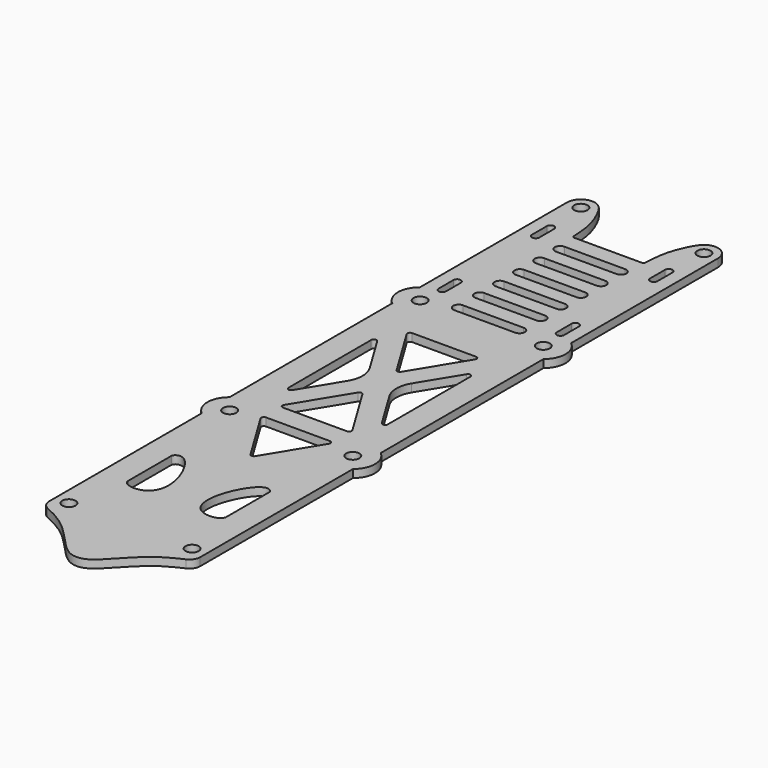
from build123d import *

# Parameters (mm, degrees)
F0_R     = 1.5875
F1_DEPTH = 1.905


with BuildPart() as f1:
    # F0 (on Top) → F1 (new body)
    with BuildSketch(Plane.XY):
        with BuildLine():
            Line((0, 64.29375), (-8.0692915369, 64.29375))
            ThreePointArc((-8.0692915369, 64.29375), (-8.4215671181, 64.4357364554), (-8.5769200179, 64.7823251383))
            add(Edge.make_bspline(
                [(-12.8926122561, 77.3753028588), (-11.8795596063, 76.6333639622), (-10.6498003247, 74.3650900179), (-8.8644784875, 70.1559227515), (-8.62777916, 66.1114233554), (-8.5769200179, 64.7823251383)],
                knots=[0, 0, 0, 0, 0.2946282226, 0.6388134724, 0.9581645609, 0.9581645609, 0.9581645609, 0.9581645609], degree=3))
            ThreePointArc((-12.8926122561, 77.3753028588), (-16.3119518581, 77.5025034933), (-18.0594, 74.5606523232))
            Line((-18.0594, 74.5606523232), (-18.0594, 64.29375))
            Line((-18.0594, 64.29375), (-18.0594, 30.6976966178))
            ThreePointArc((-18.0594, 30.6976966178), (-20.0373577753, 26.5546523232), (-18.0594, 22.4116080287))
            Line((-18.0594, 22.4116080287), (-18.0594, -26.1983033822))
            ThreePointArc((-18.0594, -26.1983033822), (-20.0373577753, -30.3413476768), (-18.0594, -34.4843919713))
            Line((-18.0594, -34.4843919713), (-18.0594, -80.1037074902))
            ThreePointArc((-18.0594, -80.1037074902), (-17.6548740182, -81.4789713622), (-16.5701474664, -82.4161801412))
            add(Edge.make_bspline(
                [(-16.5701474664, -82.4161801412), (-14.4586989248, -83.3755857388), (-9.7387477796, -85.8291950608), (-4.2677450179, -92.8247066324), (-1.4258848779, -94.45625), (0, -94.45625)],
                knots=[0.0694540172, 0.0694540172, 0.0694540172, 0.0694540172, 0.3658164206, 0.7438894649, 1, 1, 1, 1], degree=3))
            add(Edge.make_bspline(
                [(16.5701474664, -82.4161801412), (14.4586989248, -83.3755857388), (9.7387477796, -85.8291950608), (4.2677450179, -92.8247066324), (1.4258848779, -94.45625), (0, -94.45625)],
                knots=[0.0694540172, 0.0694540172, 0.0694540172, 0.0694540172, 0.3658164206, 0.7438894649, 1, 1, 1, 1], degree=3))
            ThreePointArc((16.5701474664, -82.4161801412), (17.6548740182, -81.4789713622), (18.0594, -80.1037074902))
            Line((18.0594, -80.1037074902), (18.0594, -34.4843919713))
            ThreePointArc((18.0594, -34.4843919713), (20.0373577753, -30.3413476768), (18.0594, -26.1983033822))
            Line((18.0594, -26.1983033822), (18.0594, 22.4116080287))
            ThreePointArc((18.0594, 22.4116080287), (20.0373577753, 26.5546523232), (18.0594, 30.6976966178))
            Line((18.0594, 30.6976966178), (18.0594, 64.29375))
            Line((18.0594, 64.29375), (18.0594, 74.5606523232))
            ThreePointArc((18.0594, 74.5606523232), (16.3119518581, 77.5025034933), (12.8926122561, 77.3753028588))
            add(Edge.make_bspline(
                [(12.8926122561, 77.3753028588), (11.8795596063, 76.6333639622), (10.6498003247, 74.3650900179), (8.8644784875, 70.1559227515), (8.62777916, 66.1114233554), (8.5769200179, 64.7823251383)],
                knots=[0, 0, 0, 0, 0.2946282226, 0.6388134724, 0.9581645609, 0.9581645609, 0.9581645609, 0.9581645609], degree=3))
            ThreePointArc((8.5769200179, 64.7823251383), (8.4215671181, 64.4357364554), (8.0692915369, 64.29375))
            Line((8.0692915369, 64.29375), (0, 64.29375))
        make_face()
        with Locations((-14.709354, -78.3473476768)):
            Circle(F0_R, mode=Mode.SUBTRACT)
        with BuildLine():
            add(Edge.make_bspline(
                [(-11.7158517241, -51.4875054359), (-11.6362785921, -50.8382730186), (-9.0120722077, -49.1688466521), (-3.4447561973, -59.2586678764), (-5.6341544406, -66.8391176817), (-11.6179846227, -65.9938752651), (-11.7158517241, -64.378246665)],
                knots=[0, 0, 0, 0, 0.1510240185, 0.4898001497, 0.7673295867, 1, 1, 1, 1], degree=3))
            Line((-11.7158517241, -64.378246665), (-11.7158517241, -51.4875054359))
        make_face(mode=Mode.SUBTRACT)
        with Locations((-14.709354, -30.3413476768)):
            Circle(F0_R, mode=Mode.SUBTRACT)
        with BuildLine():
            add(Edge.make_bspline(
                [(11.7158517241, -51.4875054359), (11.6362785921, -50.8382730186), (9.0120722077, -49.1688466521), (3.4447561973, -59.2586678764), (5.6341544406, -66.8391176817), (11.6179846227, -65.9938752651), (11.7158517241, -64.378246665)],
                knots=[0, 0, 0, 0, 0.1510240185, 0.4898001497, 0.7673295867, 1, 1, 1, 1], degree=3))
            Line((11.7158517241, -51.4875054359), (11.7158517241, -64.378246665))
        make_face(mode=Mode.SUBTRACT)
        with Locations((14.709354, -78.3473476768)):
            Circle(F0_R, mode=Mode.SUBTRACT)
        with BuildLine():
            Line((0, -28.3330918644), (7.6392760586, -28.3330918644))
            ThreePointArc((7.6392760586, -28.3330918644), (8.1898165346, -28.6552165867), (8.1787231675, -29.292975232))
            Line((8.1787231675, -29.292975232), (0.5394471089, -41.8432144712))
            ThreePointArc((0.5394471089, -41.8432144712), (0, -42.1463796193), (-0.5394471089, -41.8432144712))
            Line((-0.5394471089, -41.8432144712), (-8.1787231675, -29.292975232))
            ThreePointArc((-8.1787231675, -29.292975232), (-8.1898165346, -28.6552165867), (-7.6392760586, -28.3330918644))
            Line((-7.6392760586, -28.3330918644), (0, -28.3330918644))
        make_face(mode=Mode.SUBTRACT)
        with BuildLine():
            Line((-8.1787231675, -22.2932084967), (-0.5394471089, -9.7429692576))
            ThreePointArc((-0.5394471089, -9.7429692576), (0, -9.4398041095), (0.5394471089, -9.7429692576))
            Line((0.5394471089, -9.7429692576), (8.1787231675, -22.2932084967))
            ThreePointArc((8.1787231675, -22.2932084967), (8.1898165346, -22.930967142), (7.6392760586, -23.2530918644))
            Line((7.6392760586, -23.2530918644), (0, -23.2530918644))
            Line((0, -23.2530918644), (-7.6392760586, -23.2530918644))
            ThreePointArc((-7.6392760586, -23.2530918644), (-8.1898165346, -22.930967142), (-8.1787231675, -22.2932084967))
        make_face(mode=Mode.SUBTRACT)
        with Locations((14.709354, -30.3413476768)):
            Circle(F0_R, mode=Mode.SUBTRACT)
        with Locations((-14.709354, 26.5546523232)):
            Circle(F0_R, mode=Mode.SUBTRACT)
        with BuildLine():
            ThreePointArc((-15.0114, 36.86175), (-14.1224, 37.75075), (-13.2334, 36.86175))
            Line((-13.2334, 36.86175), (-13.2334, 32.41675))
            ThreePointArc((-13.2334, 32.41675), (-14.1224, 31.52775), (-15.0114, 32.41675))
            Line((-15.0114, 32.41675), (-15.0114, 36.86175))
        make_face(mode=Mode.SUBTRACT)
        with BuildLine():
            Line((-11.8618, -16.3216522163), (-11.8618, 8.3841522163))
            ThreePointArc((-11.8618, 8.3841522163), (-11.4007881364, 8.9922216298), (-10.6908286332, 8.712511326))
            Line((-10.6908286332, 8.712511326), (-4.9815079817, -0.6670868872))
            ThreePointArc((-4.9815079817, -0.6670868872), (-4.0556688098, -3.96875), (-4.9815079817, -7.2704131128))
            Line((-4.9815079817, -7.2704131128), (-10.6908286332, -16.650011326))
            ThreePointArc((-10.6908286332, -16.650011326), (-11.4007881364, -16.9297216298), (-11.8618, -16.3216522163))
        make_face(mode=Mode.SUBTRACT)
        with BuildLine():
            ThreePointArc((-15.0114, 64.75095), (-14.1224, 65.63995), (-13.2334, 64.75095))
            Line((-13.2334, 64.75095), (-13.2334, 60.30595))
            ThreePointArc((-13.2334, 60.30595), (-14.1224, 59.41695), (-15.0114, 60.30595))
            Line((-15.0114, 60.30595), (-15.0114, 64.75095))
        make_face(mode=Mode.SUBTRACT)
        with Locations((-14.709354, 74.5606523232)):
            Circle(F0_R, mode=Mode.SUBTRACT)
        with BuildLine():
            ThreePointArc((0.5394471089, 1.8054692576), (0, 1.5023041095), (-0.5394471089, 1.8054692576))
            Line((-0.5394471089, 1.8054692576), (-8.1787231675, 14.3557084967))
            ThreePointArc((-8.1787231675, 14.3557084967), (-8.1898165346, 14.993467142), (-7.6392760586, 15.3155918644))
            Line((-7.6392760586, 15.3155918644), (0, 15.3155918644))
            Line((0, 15.3155918644), (7.6392760586, 15.3155918644))
            ThreePointArc((7.6392760586, 15.3155918644), (8.1898165346, 14.993467142), (8.1787231675, 14.3557084967))
            Line((8.1787231675, 14.3557084967), (0.5394471089, 1.8054692576))
        make_face(mode=Mode.SUBTRACT)
        with BuildLine():
            ThreePointArc((4.9815079817, -7.2704131128), (4.0556688098, -3.96875), (4.9815079817, -0.6670868872))
            Line((4.9815079817, -0.6670868872), (10.6908286332, 8.712511326))
            ThreePointArc((10.6908286332, 8.712511326), (11.4007881364, 8.9922216298), (11.8618, 8.3841522163))
            Line((11.8618, 8.3841522163), (11.8618, -16.3216522163))
            ThreePointArc((11.8618, -16.3216522163), (11.4007881364, -16.9297216298), (10.6908286332, -16.650011326))
            Line((10.6908286332, -16.650011326), (4.9815079817, -7.2704131128))
        make_face(mode=Mode.SUBTRACT)
        with BuildLine():
            Line((-7.2771, 30.00375), (0, 30.00375))
            Line((0, 30.00375), (7.2771, 30.00375))
            ThreePointArc((7.2771, 30.00375), (8.5471, 28.73375), (7.2771, 27.46375))
            Line((7.2771, 27.46375), (0, 27.46375))
            Line((0, 27.46375), (-7.2771, 27.46375))
            ThreePointArc((-7.2771, 27.46375), (-8.5471, 28.73375), (-7.2771, 30.00375))
        make_face(mode=Mode.SUBTRACT)
        with Locations((14.709354, 26.5546523232)):
            Circle(F0_R, mode=Mode.SUBTRACT)
        with BuildLine():
            Line((13.2334, 32.41675), (13.2334, 36.86175))
            ThreePointArc((13.2334, 36.86175), (14.1224, 37.75075), (15.0114, 36.86175))
            Line((15.0114, 36.86175), (15.0114, 32.41675))
            ThreePointArc((15.0114, 32.41675), (14.1224, 31.52775), (13.2334, 32.41675))
        make_face(mode=Mode.SUBTRACT)
        with BuildLine():
            ThreePointArc((-7.2771, 33.81375), (-8.5471, 35.08375), (-7.2771, 36.35375))
            Line((-7.2771, 36.35375), (0, 36.35375))
            Line((0, 36.35375), (7.2771, 36.35375))
            ThreePointArc((7.2771, 36.35375), (8.5471, 35.08375), (7.2771, 33.81375))
            Line((7.2771, 33.81375), (0, 33.81375))
            Line((0, 33.81375), (-7.2771, 33.81375))
        make_face(mode=Mode.SUBTRACT)
        with BuildLine():
            Line((0, 42.34815), (7.2771, 42.34815))
            ThreePointArc((7.2771, 42.34815), (8.5471, 41.07815), (7.2771, 39.80815))
            Line((7.2771, 39.80815), (0, 39.80815))
            Line((0, 39.80815), (-7.2771, 39.80815))
            ThreePointArc((-7.2771, 39.80815), (-8.5471, 41.07815), (-7.2771, 42.34815))
            Line((-7.2771, 42.34815), (0, 42.34815))
        make_face(mode=Mode.SUBTRACT)
        with BuildLine():
            Line((0, 48.34255), (7.2771, 48.34255))
            ThreePointArc((7.2771, 48.34255), (8.5471, 47.07255), (7.2771, 45.80255))
            Line((7.2771, 45.80255), (0, 45.80255))
            Line((0, 45.80255), (-7.2771, 45.80255))
            ThreePointArc((-7.2771, 45.80255), (-8.5471, 47.07255), (-7.2771, 48.34255))
            Line((-7.2771, 48.34255), (0, 48.34255))
        make_face(mode=Mode.SUBTRACT)
        with BuildLine():
            Line((0, 54.33695), (7.2771, 54.33695))
            ThreePointArc((7.2771, 54.33695), (8.5471, 53.06695), (7.2771, 51.79695))
            Line((7.2771, 51.79695), (0, 51.79695))
            Line((0, 51.79695), (-7.2771, 51.79695))
            ThreePointArc((-7.2771, 51.79695), (-8.5471, 53.06695), (-7.2771, 54.33695))
            Line((-7.2771, 54.33695), (0, 54.33695))
        make_face(mode=Mode.SUBTRACT)
        with BuildLine():
            Line((0, 60.33135), (7.2771, 60.33135))
            ThreePointArc((7.2771, 60.33135), (8.5471, 59.06135), (7.2771, 57.79135))
            Line((7.2771, 57.79135), (0, 57.79135))
            Line((0, 57.79135), (-7.2771, 57.79135))
            ThreePointArc((-7.2771, 57.79135), (-8.5471, 59.06135), (-7.2771, 60.33135))
            Line((-7.2771, 60.33135), (0, 60.33135))
        make_face(mode=Mode.SUBTRACT)
        with BuildLine():
            Line((13.2334, 60.30595), (13.2334, 64.75095))
            ThreePointArc((13.2334, 64.75095), (14.1224, 65.63995), (15.0114, 64.75095))
            Line((15.0114, 64.75095), (15.0114, 60.30595))
            ThreePointArc((15.0114, 60.30595), (14.1224, 59.41695), (13.2334, 60.30595))
        make_face(mode=Mode.SUBTRACT)
        with Locations((14.709354, 74.5606523232)):
            Circle(F0_R, mode=Mode.SUBTRACT)
    extrude(amount=F1_DEPTH)


solid = f1.part
